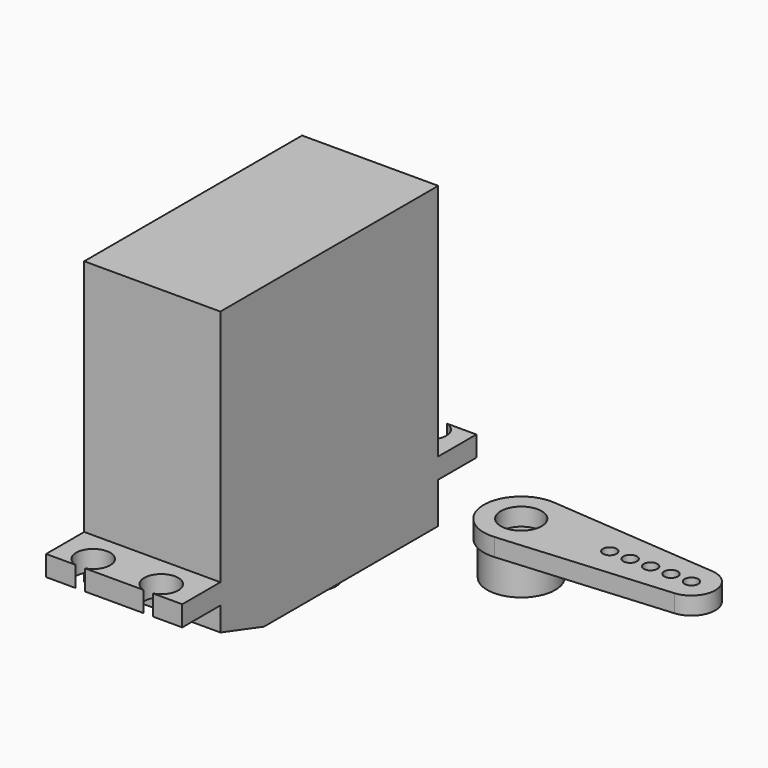
from build123d import *

# Parameters (mm, degrees)
F0_W     = 20
F0_H     = 40
F0_R     = 6.5
F0_R_2   = 3
F1_DEPTH = 35
F2_DEPTH = 9
F3_DEPTH = 3
F4_SIZE2 = 8
F4_SIZE  = 2.5
F5_DEPTH = 10
F6_DEPTH = 15
F0_R_3   = 5
F0_R_4   = 1
F7_DEPTH = 2.6
F8_DEPTH = 5
F0_R_5   = 2
F9_DEPTH = 2


with BuildPart() as f1:
    # F0 (on Top) → F1 (new body)
    with BuildSketch(Plane.XY):
        Rectangle(F0_W, F0_H)
        with Locations((0, 10)):
            Circle(F0_R, mode=Mode.SUBTRACT)
        with Locations((0, 10)):
            Circle(F0_R)
        with Locations((0, 10)):
            Circle(F0_R_2, mode=Mode.SUBTRACT)
        with Locations((0, 10)):
            Circle(F0_R_2)
    extrude(amount=F1_DEPTH)

    # F0 (on Top) → F2 (join)
    with BuildSketch(Plane.XY):
        Rectangle(F0_W, F0_H)
        with Locations((0, 10)):
            Circle(F0_R, mode=Mode.SUBTRACT)
        with Locations((0, 10)):
            Circle(F0_R_2)
        with Locations((0, 10)):
            Circle(F0_R)
        with Locations((0, 10)):
            Circle(F0_R_2, mode=Mode.SUBTRACT)
    extrude(amount=-F2_DEPTH)

    # F0 (on Top) → F3 (join)
    with BuildSketch(Plane.XY):
        with BuildLine():
            Line((-10, 27), (-10, 20))
            Line((-10, 20), (10, 20))
            Line((10, 20), (10, 27))
            Line((10, 27), (5.7, 27))
            ThreePointArc((5.7, 27), (7, 26.1), (7.5, 24.6))
            ThreePointArc((7.5, 24.6), (3.5, 22.6), (4.3, 27))
            Line((4.3, 27), (-4.3, 27))
            ThreePointArc((-4.3, 27), (-3, 26.1), (-2.5, 24.6))
            ThreePointArc((-2.5, 24.6), (-6.5, 22.6), (-5.7, 27))
            Line((-5.7, 27), (-10, 27))
        make_face()
        with BuildLine():
            Line((10, -20), (-10, -20))
            Line((-10, -20), (-10, -27))
            Line((-10, -27), (-5.7, -27))
            ThreePointArc((-5.7, -27), (-6.5, -22.6), (-2.5, -24.6))
            ThreePointArc((-2.5, -24.6), (-3, -26.1), (-4.3, -27))
            Line((-4.3, -27), (4.3, -27))
            ThreePointArc((4.3, -27), (3.5, -22.6), (7.5, -24.6))
            ThreePointArc((7.5, -24.6), (7, -26.1), (5.7, -27))
            Line((5.7, -27), (10, -27))
            Line((10, -27), (10, -20))
        make_face()
        Rectangle(F0_W, F0_H)
        with Locations((0, 10)):
            Circle(F0_R, mode=Mode.SUBTRACT)
        with Locations((0, 10)):
            Circle(F0_R)
        with Locations((0, 10)):
            Circle(F0_R_2, mode=Mode.SUBTRACT)
        with Locations((0, 10)):
            Circle(F0_R_2)
    extrude(amount=-F3_DEPTH)

    # F4
    f4_edges = [f1.edges().sort_by_distance(p)[0] for p in [
        (0, -20, -9),
    ]]
    chamfer(f4_edges, length=F4_SIZE, length2=F4_SIZE2)

    # F0 (on Top) → F5 (join)
    with BuildSketch(Plane.XY):
        with Locations((0, 10)):
            Circle(F0_R)
        with Locations((0, 10)):
            Circle(F0_R_2, mode=Mode.SUBTRACT)
    extrude(amount=-F5_DEPTH)

    # F0 (on Top) → F6 (join)
    with BuildSketch(Plane.XY):
        with Locations((0, 10)):
            Circle(F0_R_2)
    extrude(amount=-F6_DEPTH)


with BuildPart() as f7:
    # F0 (on Top) → F7 (new body)
    with BuildSketch(Plane.XY):
        with BuildLine():
            Line((55.473526, 13.48445), (30.633526, 15.47804))
            ThreePointArc((30.633526, 15.47804), (24.693526, 9.995668), (30.633526, 4.513296))
            Line((30.633526, 4.513296), (55.473526, 6.506886))
            ThreePointArc((55.473526, 6.506886), (58.693526, 9.995668), (55.473526, 13.48445))
        make_face()
        with Locations((30.193526, 9.995668)):
            Circle(F0_R_3, mode=Mode.SUBTRACT)
        with Locations((43.193526, 9.995668)):
            Circle(F0_R_4, mode=Mode.SUBTRACT)
        with Locations((46.193526, 9.995668)):
            Circle(F0_R_4, mode=Mode.SUBTRACT)
        with Locations((49.193526, 9.995668)):
            Circle(F0_R_4, mode=Mode.SUBTRACT)
        with Locations((52.193526, 9.995668)):
            Circle(F0_R_4, mode=Mode.SUBTRACT)
        with Locations((55.193526, 9.995668)):
            Circle(F0_R_4, mode=Mode.SUBTRACT)
        with Locations((30.193526, 9.995668)):
            Circle(F0_R_3)
        with Locations((30.193526, 9.995668)):
            Circle(F0_R_2, mode=Mode.SUBTRACT)
    extrude(amount=F7_DEPTH)

    # F0 (on Top) → F8 (join)
    with BuildSketch(Plane.XY):
        with Locations((30.193526, 9.995668)):
            Circle(F0_R_3)
        with Locations((30.193526, 9.995668)):
            Circle(F0_R_2, mode=Mode.SUBTRACT)
    extrude(amount=-F8_DEPTH)

    # F0 (on Top) → F9 (join)
    with BuildSketch(Plane.XY):
        with Locations((30.193526, 9.995668)):
            Circle(F0_R_2)
        with Locations((30.193526, 9.995668)):
            Circle(F0_R_5, mode=Mode.SUBTRACT)
    extrude(amount=-F9_DEPTH)


solid = Compound([f1.part, f7.part])
